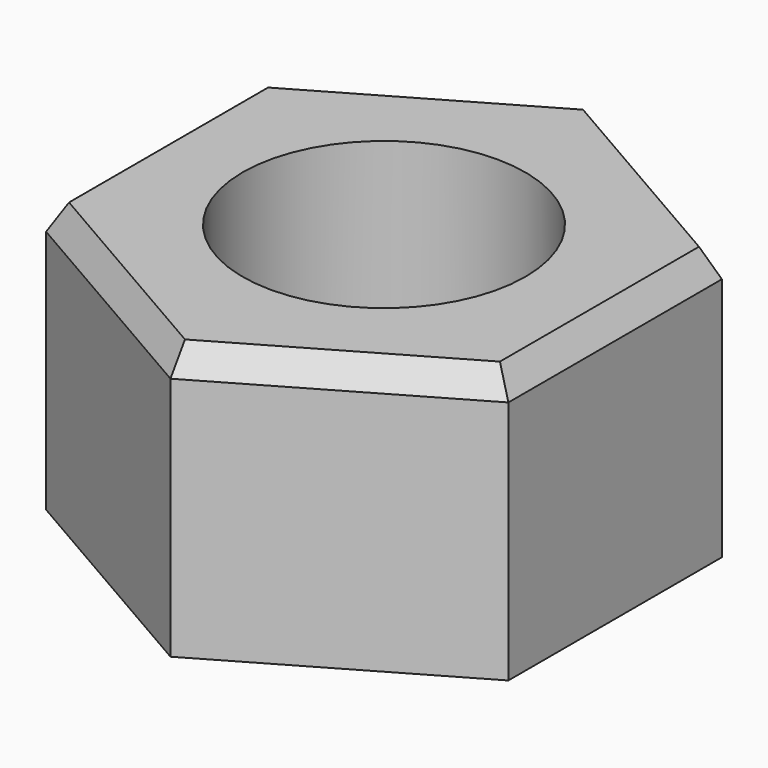
from build123d import *

# Parameters (mm, degrees)
F0_R     = 5.2
F1_DEPTH = 10
F2_SIZE2 = 0.57735
F2_SIZE  = 1


with BuildPart() as f1:
    # F0 (on Top) → F1 (new body)
    with BuildSketch(Plane.XY):
        Polygon((8.5, -4.907477), (8.5, 4.907477), (0, 9.814955), (-8.5, 4.907477), (-8.5, -4.907477), (0, -9.814955), align=None)
        Circle(F0_R, mode=Mode.SUBTRACT)
    extrude(amount=F1_DEPTH)

    # F2
    f2_edges = [f1.edges().sort_by_distance(p)[0] for p in [
        (-4.25, 7.361216, 10),
        (4.25, 7.361216, 10),
        (8.5, 0, 10),
        (4.25, -7.361216, 10),
        (-4.25, -7.361216, 10),
        (-8.5, 0, 10),
    ]]
    chamfer(f2_edges, length=F2_SIZE, length2=F2_SIZE2)


solid = f1.part
